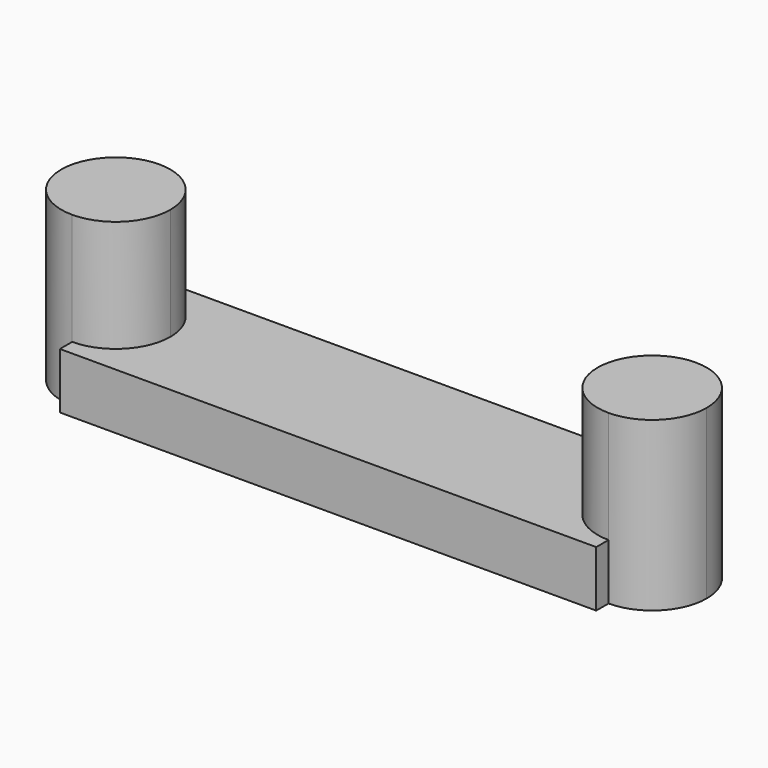
from build123d import *

# Parameters (mm, degrees)
F1_DEPTH = 12
F2_DEPTH = 4


with BuildPart() as f1:
    # F0 (on Top) → F1 (new body)
    with BuildSketch(Plane.XY):
        with BuildLine():
            ThreePointArc((-14.2014003754, -5.5286388661), (-15.3436839287, -2.7709224195), (-18.1014003754, -1.6286388661))
            Line((-18.1014003754, -1.6286388661), (-18.1014003754, -9.4286388661))
            ThreePointArc((-18.1014003754, -9.4286388661), (-15.3436839287, -8.2863553127), (-14.2014003754, -5.5286388661))
        make_face()
        with BuildLine():
            Line((-18.1014003754, -9.4286388661), (-18.1014003754, -1.6286388661))
            ThreePointArc((-18.1014003754, -1.6286388661), (-22.0014003754, -5.5286388661), (-18.1014003754, -9.4286388661))
        make_face()
    extrude(amount=F1_DEPTH)



with BuildPart() as f1b:
    # F0 (on Top) → F1, piece 2 (new body)
    with BuildSketch(Plane.XY):
        with BuildLine():
            ThreePointArc((24.1485996246, -5.5286388661), (23.0063160713, -2.7709224195), (20.2485996246, -1.6286388661))
            Line((20.2485996246, -1.6286388661), (20.2485996246, -9.4286388661))
            ThreePointArc((20.2485996246, -9.4286388661), (23.0063160713, -8.2863553127), (24.1485996246, -5.5286388661))
        make_face()
        with BuildLine():
            Line((20.2485996246, -9.4286388661), (20.2485996246, -1.6286388661))
            ThreePointArc((20.2485996246, -1.6286388661), (16.3485996246, -5.5286388661), (20.2485996246, -9.4286388661))
        make_face()
    extrude(amount=F1_DEPTH)


with BuildPart() as f1_1:
    add(f1.part)

    add(f1b.part)  # F2 merges F1b
    # F0 (on Top) → F2 (join)
    with BuildSketch(Plane.XY):
        with BuildLine():
            Line((20.2485996246, -0.5286388661), (-18.1014003754, -0.5286388661))
            Line((-18.1014003754, -0.5286388661), (-18.1014003754, -1.6286388661))
            ThreePointArc((-18.1014003754, -1.6286388661), (-15.3436839287, -2.7709224195), (-14.2014003754, -5.5286388661))
            ThreePointArc((-14.2014003754, -5.5286388661), (-15.3436839287, -8.2863553127), (-18.1014003754, -9.4286388661))
            Line((-18.1014003754, -9.4286388661), (-18.1014003754, -10.5286388661))
            Line((-18.1014003754, -10.5286388661), (20.2485996246, -10.5286388661))
            Line((20.2485996246, -10.5286388661), (20.2485996246, -9.4286388661))
            ThreePointArc((20.2485996246, -9.4286388661), (16.3485996246, -5.5286388661), (20.2485996246, -1.6286388661))
            Line((20.2485996246, -1.6286388661), (20.2485996246, -0.5286388661))
        make_face()
    extrude(amount=F2_DEPTH)


solid = f1_1.part
